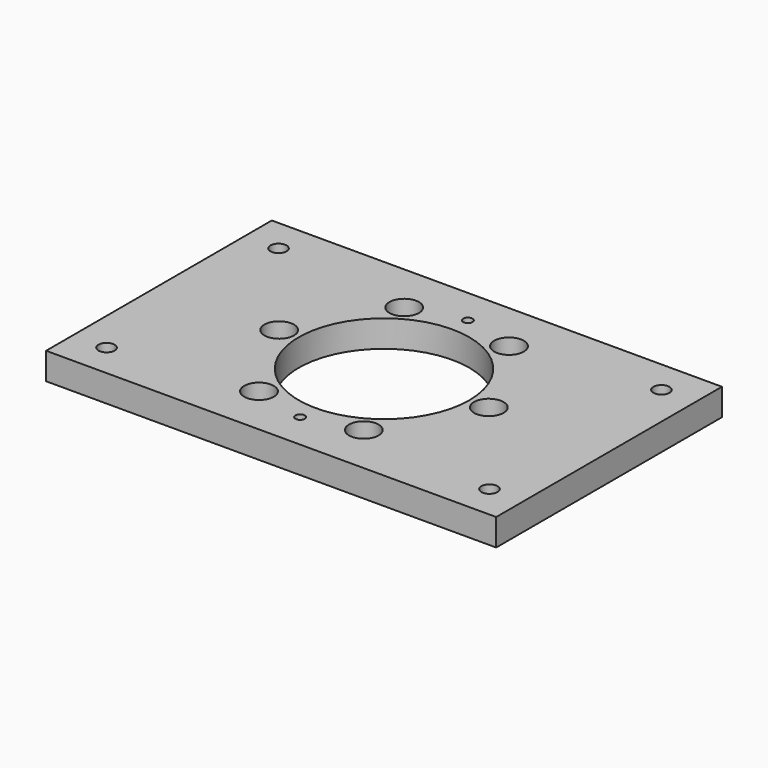
from build123d import *

# Parameters (mm, degrees)
F0_W     = 335
F0_H     = 210
F0_R     = 6
F0_R_2   = 11
F0_R_3   = 3.5
F0_R_4   = 63.5
F1_DEPTH = 20
F2_DEPTH = 5


with BuildPart() as f1:
    # F0 (on Top) → F1 (new body)
    with BuildSketch(Plane.XY):
        with Locations((-111.167585, -247.83754)):
            Rectangle(F0_W, F0_H)
        with Locations((-253.667585, -327.83754)):
            Circle(F0_R, mode=Mode.SUBTRACT)
        with Locations((-150.164311, -315.381851)):
            Circle(F0_R_2, mode=Mode.SUBTRACT)
        with Locations((-111.167585, -325.830972)):
            Circle(F0_R_3, mode=Mode.SUBTRACT)
        with Locations((-111.167585, -247.83754)):
            Circle(F0_R_4, mode=Mode.SUBTRACT)
        with Locations((-72.170858, -315.381851)):
            Circle(F0_R_2, mode=Mode.SUBTRACT)
        with Locations((31.332415, -327.83754)):
            Circle(F0_R, mode=Mode.SUBTRACT)
        with Locations((-189.161038, -247.83754)):
            Circle(F0_R_2, mode=Mode.SUBTRACT)
        with Locations((-253.667585, -167.83754)):
            Circle(F0_R, mode=Mode.SUBTRACT)
        with Locations((-150.164311, -180.293228)):
            Circle(F0_R_2, mode=Mode.SUBTRACT)
        with Locations((-111.167585, -169.844107)):
            Circle(F0_R_3, mode=Mode.SUBTRACT)
        with Locations((-33.174132, -247.83754)):
            Circle(F0_R_2, mode=Mode.SUBTRACT)
        with Locations((-72.170858, -180.293228)):
            Circle(F0_R_2, mode=Mode.SUBTRACT)
        with Locations((31.332415, -167.83754)):
            Circle(F0_R, mode=Mode.SUBTRACT)
    extrude(amount=F1_DEPTH)


with BuildPart() as f2:
    # F0 (on Top) → F2 (new body)
    with BuildSketch(Plane.XY):
        with Locations((-111.167585, -169.844107)):
            Circle(F0_R_3)
        with Locations((-111.167585, -325.830972)):
            Circle(F0_R_3)
    extrude(amount=F2_DEPTH)


solid = Compound([f1.part, f2.part])
